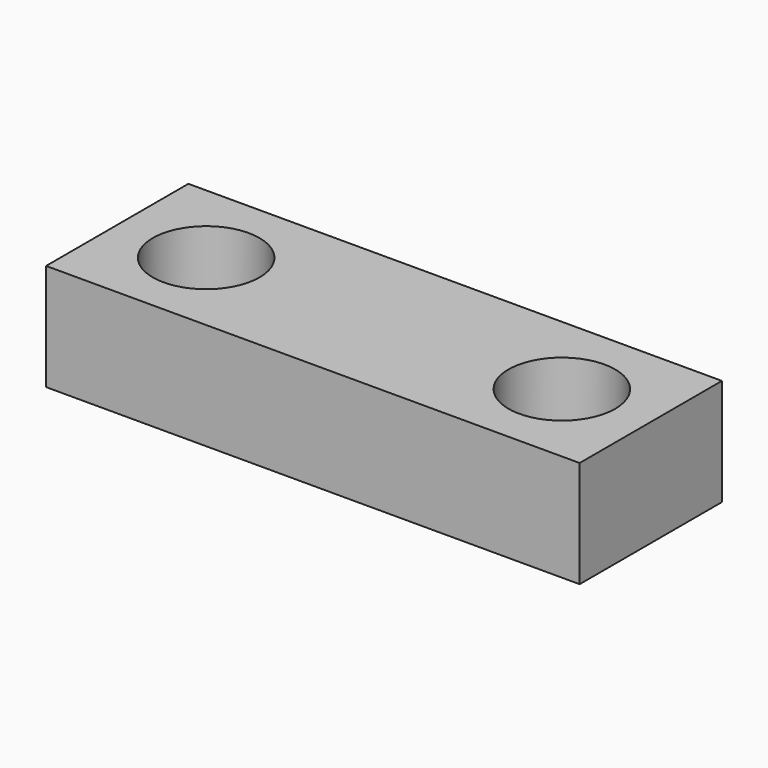
from build123d import *

# Parameters (mm, degrees)
SKETCH_W  = 15
SKETCH_H  = 5
SKETCH_R  = 1.5
PAD_DEPTH = 3


with BuildPart() as part:
    # Sketch → Pad (new body)
    with BuildSketch(Plane.XY):
        with Locations((7.5, 2.5)):
            Rectangle(SKETCH_W, SKETCH_H)
        with Locations((2.5, 2.5)):
            Circle(SKETCH_R, mode=Mode.SUBTRACT)
        with Locations((12.5, 2.5)):
            Circle(SKETCH_R, mode=Mode.SUBTRACT)
    extrude(amount=PAD_DEPTH)


solid = part.part
